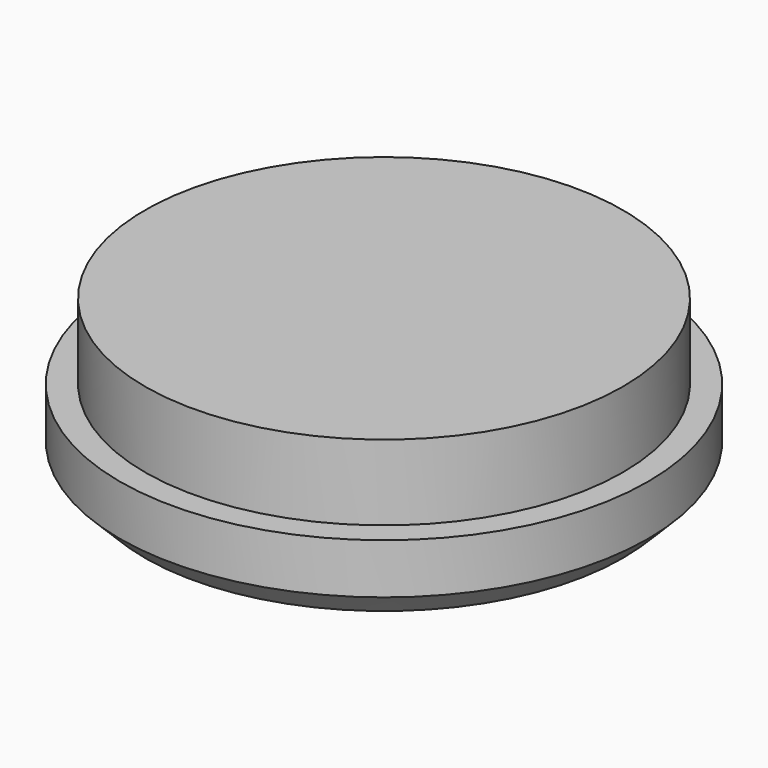
from build123d import *

# Parameters (mm, degrees)
F0_R     = 10.5
F1_DEPTH = 3
F2_SIZE  = 1
F3_R     = 9.5
F4_DEPTH = 3


with BuildPart() as f1:
    # F0 (on Top) → F1 (new body)
    with BuildSketch(Plane.XY):
        Circle(F0_R)
    extrude(amount=F1_DEPTH)

    # F2
    f2_edges = [f1.edges().sort_by_distance(p)[0] for p in [
        (-10.5, 0, 0),
    ]]
    chamfer(f2_edges, length=F2_SIZE)

    # F3 (on face) → F4 (join)
    with BuildSketch(Plane.XY.offset(3)):
        Circle(F3_R)
    extrude(amount=F4_DEPTH)


solid = f1.part
